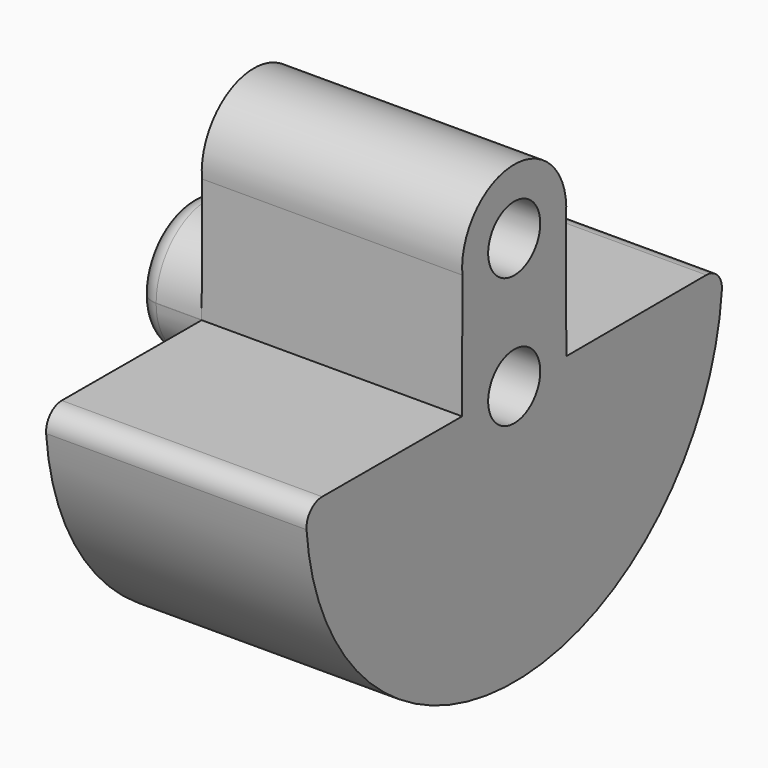
from build123d import *

# Parameters (mm, degrees)
F2_R     = 0.5
F3_DEPTH = 25
F4_R     = 0.3


with BuildPart() as f1:
    # F0 (on Front) → F1 (revolve)
    with BuildSketch(Plane.XZ):
        Polygon((0, 1), (0, 0), (5, 0), (5, 4), (1, 4), (1, 1), align=None)
    revolve(axis=Axis((2.5, 0, 0), (-1, 0, 0)))

    # F2 (on Right) → F3 (intersect)
    with BuildSketch(Plane.YZ):
        with BuildLine():
            Line((4.000914, 0.006655), (1, 0))
            Line((1, 0), (0.995769, 1.908105))
            ThreePointArc((0.995769, 1.908105), (0, 3), (-0.995769, 1.908105))
            Line((-0.995769, 1.908105), (-1, 0))
            Line((-1, 0), (-4.000914, 0.006655))
            ThreePointArc((-4.000914, 0.006655), (0, -4.000919), (4.000914, 0.006655))
        make_face()
        Circle(F2_R, mode=Mode.SUBTRACT)
        with Locations((0, 2)):
            Circle(F2_R, mode=Mode.SUBTRACT)
    extrude(amount=F3_DEPTH, mode=Mode.INTERSECT)

    # F4
    f4_edges = [f1.edges().sort_by_distance(p)[0] for p in [
        (3, -3.999994, 0.006653),
        (3, 3.999994, 0.006653),
        (0, 0.999995, 0.002218),
    ]]
    fillet(f4_edges, radius=F4_R)


solid = f1.part
